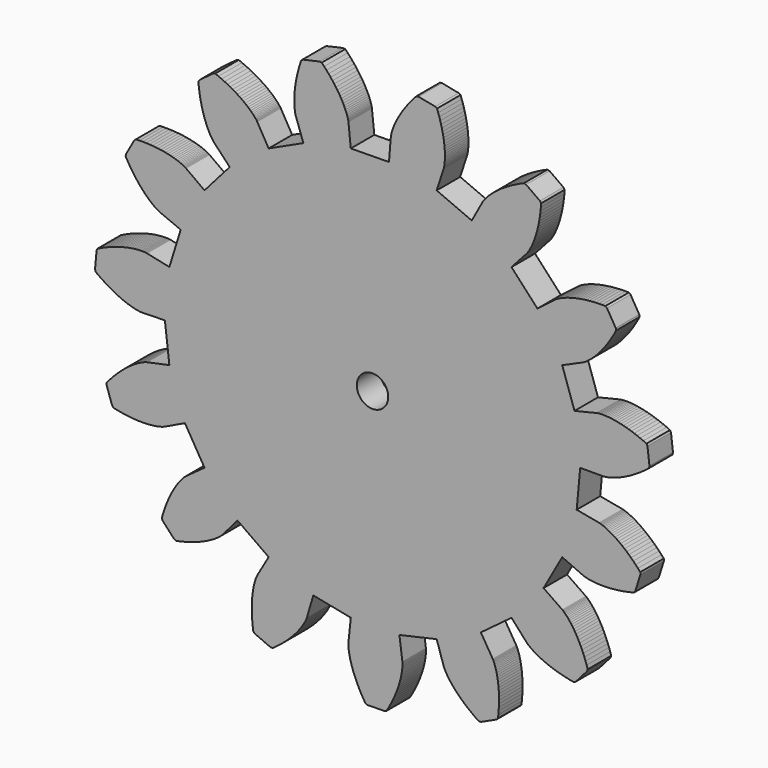
from build123d import *

# Parameters (mm, degrees)
F0_R     = 1.5875
F1_DEPTH = 2.9718


with BuildPart() as f1:
    # F0 (on Front) → F1 (new body)
    with BuildSketch(Plane.XZ):
        Polygon((20.671688, -3.655949), (21.027288, 0.19144), (23.353674, 0.19144), (23.38263, 0.192964), (23.423778, 0.197028), (23.476356, 0.202616), (23.542396, 0.209474), (23.620882, 0.22192), (23.710544, 0.236906), (23.812652, 0.25621), (23.926952, 0.282372), (24.052174, 0.312852), (24.190096, 0.348666), (24.33894, 0.392608), (24.497182, 0.443662), (24.668378, 0.501574), (24.848718, 0.569138), (25.03871, 0.64483), (25.238862, 0.730428), (25.449428, 0.825424), (25.668884, 0.930072), (25.89596, 1.045896), (26.131672, 1.174166), (26.375512, 1.311834), (26.627734, 1.463472), (26.887068, 1.627556), (27.151482, 1.803832), (27.422754, 1.994078), (27.699868, 2.19804), (27.982316, 2.415718), (28.0321, 2.627808), (27.830678, 4.333926), (27.732888, 4.528236), (27.407768, 4.674286), (27.090776, 4.80789), (26.78369, 4.929302), (26.484478, 5.039538), (26.195172, 5.138598), (25.913994, 5.22699), (25.645262, 5.305476), (25.386182, 5.37431), (25.136754, 5.435016), (24.899772, 5.485816), (24.673712, 5.530012), (24.458828, 5.565826), (24.25639, 5.594782), (24.064874, 5.61815), (23.88555, 5.636184), (23.718672, 5.64863), (23.564494, 5.656758), (23.422254, 5.659552), (23.292968, 5.661076), (23.177144, 5.658282), (23.072496, 5.653964), (22.98131, 5.64863), (22.903078, 5.640248), (22.836784, 5.63339), (22.78319, 5.626532), (22.743312, 5.619674), (22.715372, 5.614086), (22.699116, 5.611292), (20.451216, 5.073828), (19.211188, 8.733968), (21.322182, 9.673768), (21.337422, 9.680626), (21.36206, 9.693326), (21.398128, 9.712376), (21.445118, 9.739808), (21.501506, 9.773082), (21.568816, 9.815754), (21.644762, 9.866808), (21.730106, 9.92599), (21.823832, 9.994824), (21.92594, 10.074834), (22.03643, 10.164496), (22.154794, 10.26381), (22.280016, 10.375062), (22.41108, 10.497998), (22.549002, 10.633126), (22.692004, 10.779176), (22.841102, 10.938942), (22.993756, 11.111154), (23.150982, 11.295812), (23.312272, 11.494186), (23.476356, 11.70653), (23.641456, 11.932336), (23.811128, 12.173636), (23.980546, 12.428652), (24.150218, 12.69713), (24.320906, 12.981102), (24.492102, 13.280314), (24.659996, 13.594258), (24.620118, 13.808126), (23.742294, 15.285136), (23.574146, 15.423058), (23.217022, 15.424582), (22.874122, 15.41747), (22.54316, 15.403754), (22.225152, 15.381656), (21.920352, 15.35524), (21.628252, 15.322474), (21.349868, 15.283612), (21.0852, 15.24094), (20.832978, 15.195474), (20.59625, 15.146198), (20.37146, 15.09362), (20.16064, 15.038502), (19.96379, 14.983384), (19.778878, 14.926996), (19.60819, 14.870354), (19.45071, 14.813712), (19.306184, 14.757324), (19.175374, 14.70373), (19.056756, 14.651152), (18.951854, 14.601876), (18.858382, 14.554886), (18.777102, 14.513484), (18.708268, 14.474876), (18.651626, 14.440586), (18.60616, 14.412646), (18.571616, 14.390802), (18.548502, 14.374292), (18.534532, 14.36464), (16.700652, 12.960274), (14.079372, 15.799232), (15.625724, 17.516018), (15.635122, 17.528718), (15.653156, 17.550562), (15.677794, 17.582312), (15.709544, 17.626508), (15.748152, 17.680102), (15.792094, 17.746396), (15.840354, 17.823358), (15.894202, 17.91302), (15.952368, 18.013858), (16.012566, 18.128158), (16.07759, 18.254904), (16.1449, 18.394096), (16.213988, 18.54548), (16.284346, 18.712358), (16.35445, 18.890158), (16.426078, 19.083198), (16.49669, 19.28843), (16.566794, 19.508902), (16.635628, 19.74182), (16.701922, 19.988454), (16.765168, 20.248804), (16.82435, 20.523124), (16.880738, 20.81116), (16.932046, 21.112912), (16.978782, 21.42838), (17.01866, 21.757818), (17.053204, 22.099702), (17.079366, 22.455048), (16.95516, 22.634118), (15.554096, 23.626496), (15.343022, 23.682884), (15.016378, 23.539882), (14.704974, 23.393832), (14.40881, 23.246258), (14.126362, 23.097414), (13.8589, 22.94857), (13.606678, 22.799726), (13.368172, 22.652152), (13.142366, 22.506102), (12.932816, 22.361576), (12.734188, 22.219336), (12.551054, 22.080398), (12.380366, 21.94527), (12.22314, 21.81446), (12.07836, 21.687714), (11.944756, 21.566302), (11.824868, 21.450732), (11.716156, 21.340242), (11.618112, 21.238134), (11.529974, 21.141868), (11.454282, 21.05373), (11.387988, 20.97372), (11.3316, 20.902092), (11.28334, 20.838592), (11.244732, 20.784998), (11.192154, 20.706258), (11.177168, 20.68162), (11.17031, 20.667904), (10.065156, 18.637936), (6.515252, 20.16473), (7.230516, 22.362846), (7.234834, 22.378086), (7.241438, 22.405518), (7.25109, 22.445396), (7.262266, 22.49772), (7.275982, 22.56249), (7.288428, 22.64123), (7.302144, 22.730892), (7.31459, 22.83427), (7.325512, 22.951364), (7.335418, 23.07938), (7.343546, 23.221112), (7.34761, 23.375798), (7.349134, 23.543692), (7.344816, 23.722762), (7.338212, 23.915802), (7.324496, 24.119764), (7.304938, 24.337442), (7.280046, 24.566296), (7.24728, 24.807342), (7.206894, 25.059564), (7.158888, 25.322708), (7.1025, 25.598552), (7.036206, 25.88354), (6.960514, 26.181482), (6.874916, 26.487298), (6.77865, 26.80429), (6.669684, 27.13068), (6.549796, 27.466976), (6.363614, 27.580006), (4.679848, 27.916302), (4.46344, 27.883282), (4.224934, 27.618614), (3.999128, 27.358264), (3.788308, 27.103248), (3.591204, 26.852296), (3.407816, 26.608456), (3.236874, 26.36868), (3.078378, 26.137286), (2.932328, 25.911226), (2.798724, 25.693548), (2.677566, 25.483998), (2.565806, 25.28283), (2.465222, 25.08979), (2.37429, 24.905386), (2.29301, 24.73038), (2.221382, 24.566296), (2.157882, 24.41034), (2.102764, 24.267084), (2.054504, 24.13221), (2.014626, 24.009782), (1.980336, 23.897768), (1.95265, 23.797184), (1.930552, 23.709046), (1.912772, 23.63183), (1.898802, 23.567314), (1.88915, 23.514736), (1.883816, 23.473334), (1.879498, 23.445902), (1.878228, 23.430662), (1.69484, 21.126882), (-2.169008, 21.078368), (-2.410308, 23.375798), (-2.413102, 23.392308), (-2.417166, 23.41974), (-2.424024, 23.459618), (-2.434946, 23.511942), (-2.450186, 23.576712), (-2.46949, 23.654182), (-2.494382, 23.74232), (-2.524608, 23.84138), (-2.561692, 23.95187), (-2.605888, 24.074298), (-2.656942, 24.206632), (-2.714854, 24.349634), (-2.782164, 24.502796), (-2.85811, 24.66561), (-2.94353, 24.837568), (-3.038602, 25.019686), (-3.144723, 25.209932), (-3.260471, 25.409576), (-3.388639, 25.616332), (-3.527806, 25.829946), (-3.679393, 26.051942), (-3.843401, 26.280542), (-4.019804, 26.51473), (-4.209948, 26.754506), (-4.412513, 26.99987), (-4.630242, 27.249298), (-4.861763, 27.504314), (-5.108423, 27.76187), (-5.323408, 27.789302), (-6.999097, 27.411858), (-7.182383, 27.29324), (-7.293991, 26.954404), (-7.3946, 26.62649), (-7.482789, 26.306704), (-7.561326, 25.99784), (-7.630236, 25.699136), (-7.688123, 25.41237), (-7.737729, 25.13551), (-7.779055, 24.870842), (-7.813523, 24.617096), (-7.83971, 24.376304), (-7.859014, 24.145926), (-7.872755, 23.928248), (-7.881061, 23.724286), (-7.883804, 23.531246), (-7.882433, 23.350652), (-7.876896, 23.184282), (-7.868641, 23.029596), (-7.857617, 22.887864), (-7.845196, 22.759848), (-7.830033, 22.644024), (-7.814894, 22.540646), (-7.79973, 22.450984), (-7.784567, 22.372498), (-7.7708, 22.307474), (-7.757008, 22.256674), (-7.747381, 22.216796), (-7.739101, 22.188856), (-7.733589, 22.17387), (-6.964629, 19.995312), (-10.474503, 18.378856), (-11.630685, 20.380884), (-11.63894, 20.393584), (-11.654104, 20.418476), (-11.677548, 20.451496), (-11.707851, 20.495692), (-11.747805, 20.547762), (-11.797411, 20.609992), (-11.855298, 20.680096), (-11.924208, 20.758836), (-12.00277, 20.845704), (-12.09233, 20.939176), (-12.192914, 21.040014), (-12.304522, 21.145932), (-12.427204, 21.258962), (-12.563602, 21.376056), (-12.712446, 21.500008), (-12.872288, 21.627008), (-13.047294, 21.757818), (-13.233324, 21.891676), (-13.434517, 22.02909), (-13.649503, 22.168536), (-13.876909, 22.308998), (-14.119428, 22.450984), (-14.375714, 22.59297), (-14.647215, 22.734702), (-14.932457, 22.876942), (-15.232863, 23.01588), (-15.548432, 23.155326), (-15.877794, 23.290454), (-16.087268, 23.228224), (-17.463897, 22.200286), (-17.582439, 22.018168), (-17.546599, 21.664092), (-17.503877, 21.322208), (-17.455642, 20.994548), (-17.401896, 20.680096), (-17.342663, 20.379868), (-17.279264, 20.093102), (-17.213123, 19.82056), (-17.142841, 19.561226), (-17.069791, 19.317386), (-16.996766, 19.085992), (-16.920972, 18.867806), (-16.845178, 18.664098), (-16.768013, 18.472582), (-16.693591, 18.296052), (-16.619169, 18.131968), (-16.546144, 17.982108), (-16.475837, 17.844186), (-16.408324, 17.718964), (-16.343554, 17.607204), (-16.282949, 17.50662), (-16.227806, 17.418482), (-16.176828, 17.342536), (-16.131362, 17.27802), (-16.091383, 17.225442), (-16.059709, 17.18277), (-16.033496, 17.15102), (-16.015614, 17.129176), (-16.004565, 17.117746), (-14.415694, 15.439568), (-16.963695, 12.53584), (-18.833668, 13.89474), (-18.84746, 13.902868), (-18.870879, 13.918108), (-18.905347, 13.94046), (-18.95221, 13.966368), (-19.010071, 13.999642), (-19.080378, 14.035202), (-19.161658, 14.076604), (-19.256756, 14.120546), (-19.362826, 14.167536), (-19.48274, 14.215796), (-19.615048, 14.266596), (-19.761098, 14.319174), (-19.919594, 14.371498), (-20.091806, 14.424076), (-20.277887, 14.476146), (-20.476312, 14.527454), (-20.688554, 14.57546), (-20.913166, 14.622196), (-21.152942, 14.666392), (-21.405113, 14.706524), (-21.671077, 14.742084), (-21.950807, 14.772564), (-22.242958, 14.798726), (-22.547504, 14.81803), (-22.867188, 14.830476), (-23.197922, 14.836064), (-23.542447, 14.83454), (-23.897971, 14.823618), (-24.06335, 14.682902), (-24.903938, 13.18354), (-24.938406, 12.96891), (-24.760631, 12.660046), (-24.582857, 12.365152), (-24.405082, 12.085498), (-24.228704, 11.82083), (-24.052301, 11.570132), (-23.878667, 11.33442), (-23.706404, 11.112424), (-23.536935, 10.904398), (-23.371556, 10.709834), (-23.208971, 10.528224), (-23.051872, 10.360076), (-22.898913, 10.204374), (-22.752812, 10.061118), (-22.610902, 9.930054), (-22.477222, 9.81169), (-22.349079, 9.702724), (-22.229166, 9.606458), (-22.116161, 9.519336), (-22.011462, 9.443898), (-21.916339, 9.37608), (-21.829522, 9.318168), (-21.752382, 9.269908), (-21.684869, 9.228506), (-21.626957, 9.19701), (-21.580119, 9.170848), (-21.542908, 9.152814), (-21.516721, 9.140368), (-21.502929, 9.133764), (-19.368389, 8.247558), (-20.516291, 4.558462), (-22.776256, 5.038014), (-22.792792, 5.040808), (-22.820351, 5.044872), (-22.860305, 5.05046), (-22.914051, 5.057318), (-22.980193, 5.062906), (-23.058755, 5.068494), (-23.151084, 5.071034), (-23.254437, 5.072558), (-23.371556, 5.072558), (-23.501096, 5.068494), (-23.643057, 5.061636), (-23.797362, 5.04919), (-23.962741, 5.03268), (-24.141887, 5.010582), (-24.332057, 4.982896), (-24.534622, 4.948606), (-24.748236, 4.907204), (-24.972848, 4.857674), (-25.208484, 4.801032), (-25.45654, 4.734992), (-25.712852, 4.659046), (-25.981558, 4.573702), (-26.258545, 4.478706), (-26.545184, 4.37101), (-26.841475, 4.253916), (-27.146021, 4.124376), (-27.460194, 3.98239), (-27.781275, 3.828212), (-27.875001, 3.631108), (-28.0321, 1.920926), (-27.976982, 1.710106), (-27.688946, 1.499286), (-27.407845, 1.303706), (-27.130858, 1.120318), (-26.862126, 0.949376), (-26.598931, 0.792404), (-26.343991, 0.647624), (-26.09596, 0.51529), (-25.857556, 0.394132), (-25.626035, 0.283896), (-25.405537, 0.183312), (-25.191949, 0.09365), (-24.990755, 0.01364), (-24.797842, -0.056464), (-24.615953, -0.11844), (-24.44369, -0.173558), (-24.283848, -0.220548), (-24.133632, -0.259156), (-23.995837, -0.293446), (-23.86904, -0.321132), (-23.754664, -0.34323), (-23.652683, -0.35974), (-23.561751, -0.373456), (-23.483189, -0.383108), (-23.417022, -0.388696), (-23.363301, -0.39276), (-23.323321, -0.395554), (-23.279227, -0.395554), (-20.968259, -0.337642), (-20.516291, -4.175481), (-22.776256, -4.655033), (-22.79142, -4.659173), (-22.818979, -4.666056), (-22.858933, -4.678477), (-22.909911, -4.695012), (-22.973309, -4.715688), (-23.046334, -4.743247), (-23.13178, -4.777664), (-23.226878, -4.817643), (-23.33437, -4.865853), (-23.450118, -4.922368), (-23.576864, -4.987138), (-23.713338, -5.060163), (-23.858017, -5.142865), (-24.012347, -5.235194), (-24.174983, -5.338547), (-24.345824, -5.451551), (-24.523598, -5.576951), (-24.709653, -5.713374), (-24.902566, -5.862218), (-25.100991, -6.023432), (-25.304953, -6.197067), (-25.514427, -6.383096), (-25.729387, -6.582893), (-25.948488, -6.797878), (-26.171728, -7.025259), (-26.397737, -7.267778), (-26.625118, -7.524115), (-26.856614, -7.796962), (-26.862126, -8.014691), (-26.31092, -9.640773), (-26.174497, -9.810293), (-25.825856, -9.886061), (-25.48824, -9.950831), (-25.161646, -10.005949), (-24.846077, -10.05144), (-24.541505, -10.088626), (-24.24938, -10.117582), (-23.969624, -10.138232), (-23.702289, -10.150653), (-23.446003, -10.157536), (-23.203459, -10.158908), (-22.973309, -10.154768), (-22.755581, -10.145141), (-22.550247, -10.131349), (-22.358706, -10.114813), (-22.179559, -10.094138), (-22.014205, -10.072116), (-21.861247, -10.047275), (-21.722029, -10.022484), (-21.595283, -9.994925), (-21.482304, -9.968763), (-21.380298, -9.942576), (-21.292109, -9.917735), (-21.217712, -9.895738), (-21.154314, -9.87364), (-21.104682, -9.855759), (-21.066125, -9.840595), (-21.039912, -9.830968), (-21.024774, -9.82406), (-18.938418, -8.831859), (-16.963695, -12.152935), (-18.833668, -13.511708), (-18.846089, -13.521334), (-18.868136, -13.539267), (-18.89981, -13.565429), (-18.939789, -13.601268), (-18.988024, -13.64676), (-19.044539, -13.701852), (-19.107912, -13.766622), (-19.179565, -13.84239), (-19.256756, -13.930605), (-19.340779, -14.028445), (-19.430365, -14.138707), (-19.524091, -14.261363), (-19.623303, -14.39639), (-19.726656, -14.543837), (-19.834149, -14.703704), (-19.943013, -14.877313), (-20.056018, -15.063368), (-20.168997, -15.264562), (-20.284745, -15.47815), (-20.400493, -15.705531), (-20.516291, -15.94805), (-20.632039, -16.203016), (-20.747761, -16.473094), (-20.860766, -16.758361), (-20.971002, -17.05737), (-21.078495, -17.370171), (-21.183244, -17.698161), (-21.283828, -18.039918), (-21.19978, -18.241112), (-20.033971, -19.50339), (-19.841032, -19.602628), (-19.490995, -19.529552), (-19.156147, -19.451041), (-18.83504, -19.36971), (-18.529148, -19.282893), (-18.236997, -19.191961), (-17.958638, -19.099632), (-17.694046, -19.004559), (-17.443247, -18.908065), (-17.207611, -18.810249), (-16.98437, -18.712383), (-16.776268, -18.614568), (-16.581958, -18.518124), (-16.400069, -18.421629), (-16.231946, -18.3293), (-16.076219, -18.236997), (-15.934309, -18.148783), (-15.804769, -18.064734), (-15.687624, -17.984775), (-15.5829, -17.909007), (-15.489199, -17.838725), (-15.407894, -17.773955), (-15.337612, -17.716068), (-15.278354, -17.663719), (-15.228748, -17.618253), (-15.19014, -17.582413), (-15.161209, -17.552111), (-15.141931, -17.532807), (-15.130882, -17.520387), (-13.628827, -15.764789), (-10.474503, -17.995824), (-11.630685, -19.998131), (-11.649989, -20.036688), (-11.667871, -20.073899), (-11.689918, -20.122134), (-11.716131, -20.184135), (-11.745062, -20.25716), (-11.776735, -20.342606), (-11.811203, -20.441844), (-11.845646, -20.55208), (-11.882857, -20.676083), (-11.918696, -20.813928), (-11.955882, -20.964144), (-11.991721, -21.128101), (-12.026189, -21.304504), (-12.057863, -21.493302), (-12.088165, -21.697239), (-12.114378, -21.913596), (-12.136425, -22.142348), (-12.155703, -22.384868), (-12.168124, -22.639833), (-12.176379, -22.907168), (-12.177776, -23.18827), (-12.17361, -23.481817), (-12.159869, -23.787735), (-12.140565, -24.106048), (-12.111609, -24.43541), (-12.073052, -24.778538), (-12.026189, -25.131293), (-11.867693, -25.280137), (-10.289845, -25.959511), (-10.072116, -25.971906), (-9.782734, -25.76383), (-9.50849, -25.555753), (-9.249435, -25.350419), (-9.004148, -25.146457), (-8.773998, -24.945264), (-8.556269, -24.746839), (-8.353704, -24.552529), (-8.164932, -24.362385), (-7.988554, -24.177701), (-7.825918, -23.997183), (-7.674331, -23.823549), (-7.535164, -23.655452), (-7.408367, -23.494187), (-7.292619, -23.339857), (-7.189241, -23.193807), (-7.094169, -23.055961), (-7.010121, -22.925049), (-6.935724, -22.805187), (-6.870954, -22.693554), (-6.814439, -22.590201), (-6.766204, -22.497872), (-6.726225, -22.416567), (-6.693179, -22.344913), (-6.66562, -22.284258), (-6.646342, -22.234652), (-6.631153, -22.196069), (-6.621526, -22.169882), (-6.61736, -22.154769), (-5.958662, -19.938848), (-2.169008, -20.695387), (-2.410308, -22.992613), (-2.411578, -23.009123), (-2.413102, -23.036708), (-2.414372, -23.078008), (-2.414372, -23.13178), (-2.413102, -23.197922), (-2.410308, -23.276458), (-2.40472, -23.368813), (-2.395068, -23.47214), (-2.382622, -23.587888), (-2.364842, -23.716056), (-2.342744, -23.85662), (-2.315058, -24.008232), (-2.280768, -24.172189), (-2.240636, -24.347195), (-2.19263, -24.534597), (-2.137258, -24.731675), (-2.074012, -24.939752), (-2.00086, -25.158878), (-1.91958, -25.38763), (-1.828648, -25.626009), (-1.726794, -25.874066), (-1.613764, -26.131774), (-1.489812, -26.397712), (-1.353414, -26.671956), (-1.20584, -26.954455), (-1.04455, -27.243837), (-0.871068, -27.540128), (-0.683616, -27.843277), (-0.47813, -27.916327), (1.23891, -27.89428), (1.442872, -27.817115), (1.621942, -27.508429), (1.788566, -27.208023), (1.941728, -26.914475), (2.08219, -26.627861), (2.21173, -26.350874), (2.328824, -26.082142), (2.434996, -25.821691), (2.529992, -25.570891), (2.615336, -25.329744), (2.692552, -25.09962), (2.758846, -24.879122), (2.816758, -24.669674), (2.867558, -24.469827), (2.910484, -24.282425), (2.946298, -24.106048), (2.976524, -23.942065), (2.999892, -23.789107), (3.019196, -23.648518), (3.032912, -23.520375), (3.042564, -23.40323), (3.049676, -23.299877), (3.05374, -23.207548), (3.05501, -23.129037), (3.05374, -23.06287), (3.052216, -23.009123), (3.049676, -22.967772), (3.048152, -22.940213), (3.046882, -22.923678), (2.7464, -20.63336), (6.515252, -19.781774), (7.230516, -21.979738), (7.236104, -21.994876), (7.245756, -22.021063), (7.260996, -22.059646), (7.28284, -22.107881), (7.310272, -22.16851), (7.34634, -22.238792), (7.389012, -22.320098), (7.438796, -22.411055), (7.497978, -22.511664), (7.565288, -22.6219), (7.642504, -22.740417), (7.730896, -22.86856), (7.828432, -23.004983), (7.936128, -23.148315), (8.056016, -23.298506), (8.18708, -23.457002), (8.328812, -23.620984), (8.484768, -23.79185), (8.652662, -23.966881), (8.833256, -24.148771), (9.027566, -24.333403), (9.234322, -24.522227), (9.45581, -24.71514), (9.691522, -24.910821), (9.942474, -25.107875), (10.206888, -25.307696), (10.485272, -25.507518), (10.780166, -25.708712), (10.996828, -25.690779), (12.557912, -24.972823), (12.712344, -24.819864), (12.750952, -24.465712), (12.779654, -24.122583), (12.800482, -23.79185), (12.812928, -23.473512), (12.818516, -23.167594), (12.815722, -22.874072), (12.80734, -22.592944), (12.792354, -22.325609), (12.77305, -22.070695), (12.747904, -21.82815), (12.719202, -21.599373), (12.687706, -21.384438), (12.653162, -21.181822), (12.616078, -20.993075), (12.577216, -20.818043), (12.537338, -20.655458), (12.49746, -20.506614), (12.457328, -20.37019), (12.41745, -20.246162), (12.379096, -20.135926), (12.343028, -20.039457), (12.308484, -19.954037), (12.278004, -19.880961), (12.250572, -19.820357), (12.227204, -19.772097), (12.2079, -19.736283), (12.195454, -19.711492), (12.18758, -19.6977), (10.981588, -17.725746), (14.079372, -15.416149), (15.625724, -17.133189), (15.636646, -17.144187), (15.65595, -17.164863), (15.686176, -17.192422), (15.726054, -17.228261), (15.775838, -17.272356), (15.83629, -17.321962), (15.908172, -17.379848), (15.990722, -17.44185), (16.085718, -17.509388), (16.19316, -17.582413), (16.311778, -17.660976), (16.444112, -17.740884), (16.588638, -17.82633), (16.746118, -17.913147), (16.915282, -18.002707), (17.09994, -18.093665), (17.297044, -18.186019), (17.508118, -18.278323), (17.7324, -18.370652), (17.970906, -18.461609), (18.224652, -18.552541), (18.49059, -18.64073), (18.771768, -18.726175), (19.066662, -18.808878), (19.375272, -18.887415), (19.697852, -18.961837), (20.035418, -19.032118), (20.385176, -19.095517), (20.576946, -18.990767), (21.709532, -17.70093), (21.788272, -17.496968), (21.679306, -17.157979), (21.56653, -16.832758), (21.450452, -16.5227), (21.333104, -16.226434), (21.213724, -15.945307), (21.090788, -15.677972), (20.96963, -15.424404), (20.847202, -15.186), (20.72579, -14.961362), (20.604378, -14.750542), (20.48576, -14.553489), (20.368666, -14.368805), (20.254366, -14.199337), (20.143876, -14.040866), (20.038212, -13.896162), (19.934834, -13.763879), (19.83679, -13.643991), (19.745604, -13.536498), (19.65899, -13.440029), (19.579234, -13.354583), (19.506082, -13.280187), (19.441312, -13.216788), (19.3834, -13.163042), (19.333616, -13.118948), (19.292468, -13.08448), (19.260718, -13.058318), (19.238874, -13.040385), (19.224904, -13.03213), (17.321682, -11.72022), (19.211188, -8.35091), (21.323706, -9.290761), (21.337422, -9.296248), (21.363584, -9.305925), (21.402446, -9.319692), (21.453246, -9.337599), (21.516746, -9.356903), (21.592438, -9.377578), (21.6821, -9.400997), (21.782684, -9.424416), (21.896984, -9.447835), (22.025, -9.471279), (22.165716, -9.493326), (22.318624, -9.514002), (22.483978, -9.531909), (22.663302, -9.547073), (22.856088, -9.559468), (23.061574, -9.567748), (23.279252, -9.571888), (23.509122, -9.570517), (23.751946, -9.563583), (24.006962, -9.549841), (24.273916, -9.529166), (24.553824, -9.501607), (24.844654, -9.465767), (25.147676, -9.421673), (25.462128, -9.367952), (25.786994, -9.304553), (26.123544, -9.231478), (26.469238, -9.147454), (26.601572, -8.97382), (27.11135, -7.33392), (27.101952, -7.116191), (26.863446, -6.850228), (26.629004, -6.599453), (26.39761, -6.362421), (26.168756, -6.140552), (25.944474, -5.932475), (25.725272, -5.738165), (25.510134, -5.556275), (25.301854, -5.388153), (25.099416, -5.232425), (24.902566, -5.087722), (24.71359, -4.956835), (24.53325, -4.836922), (24.359768, -4.726686), (24.19416, -4.627499), (24.036934, -4.539285), (23.889868, -4.460723), (23.751946, -4.390466), (23.62393, -4.328439), (23.506582, -4.27609), (23.39914, -4.230624), (23.30135, -4.192016), (23.215752, -4.160317), (23.141076, -4.135501), (23.078084, -4.114825), (23.02703, -4.099712), (22.987152, -4.088663), (22.959466, -4.083152), (22.944226, -4.079037), align=None)
        with Locations((0.025738, 0.191186)):
            Circle(F0_R, mode=Mode.SUBTRACT)
    extrude(amount=F1_DEPTH)


solid = f1.part
